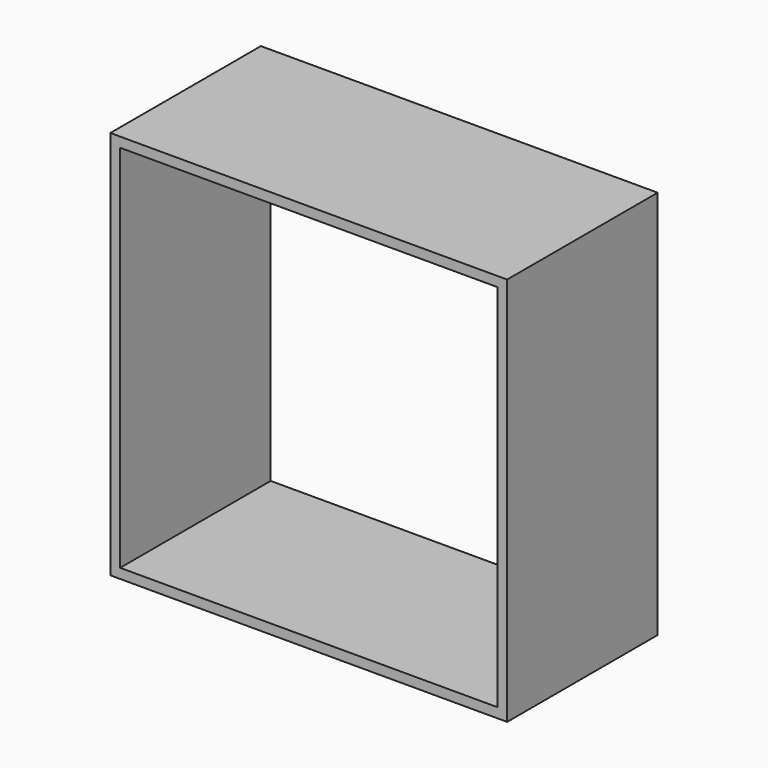
from build123d import *

# Parameters (mm, degrees)
F1_W     = 769.9375
F1_H     = 755.65
F1_W_2   = 731.8248
F1_H_2   = 717.55
F2_DEPTH = 182.5625


with BuildPart() as f2:
    # F1 (on face) → F2 (new body, symmetric)
    with BuildSketch(Plane.XZ):
        Rectangle(F1_W, F1_H)
        Rectangle(F1_W_2, F1_H_2, mode=Mode.SUBTRACT)
    extrude(amount=F2_DEPTH, both=True)


solid = f2.part
